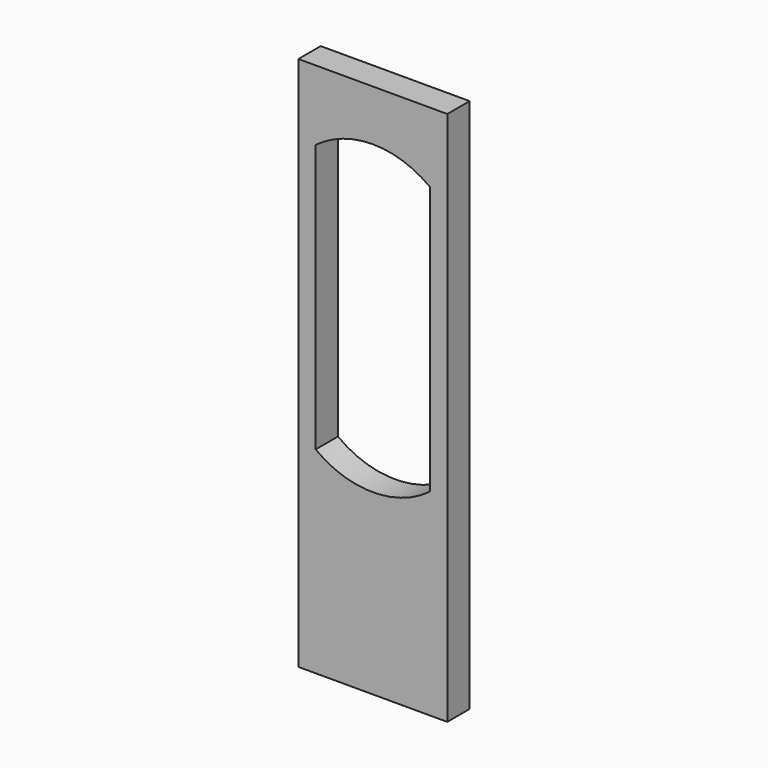
from build123d import *

# Parameters (mm, degrees)
F1_DEPTH = 19.05


with BuildPart() as f1:
    # F0 (on Front) → F1 (new body)
    with BuildSketch(Plane.XZ):
        Polygon((-163.861383, 222.770982), (-163.861383, -142.354018), (-62.261383, -142.354018), (-62.261383, 222.770982), (-113.061383, 222.770982), align=None)
        with BuildLine():
            ThreePointArc((-152.063083, 175.027341), (-133.626353, 184.734933), (-113.061383, 188.08641))
            ThreePointArc((-113.061383, 188.08641), (-92.496414, 184.734933), (-74.059683, 175.027341))
            Line((-74.059683, 175.027341), (-74.059683, -7.878059))
            ThreePointArc((-74.059683, -7.878059), (-113.061383, -20.937129), (-152.063083, -7.878059))
            Line((-152.063083, -7.878059), (-152.063083, 175.027341))
        make_face(mode=Mode.SUBTRACT)
    extrude(amount=F1_DEPTH)


solid = f1.part
